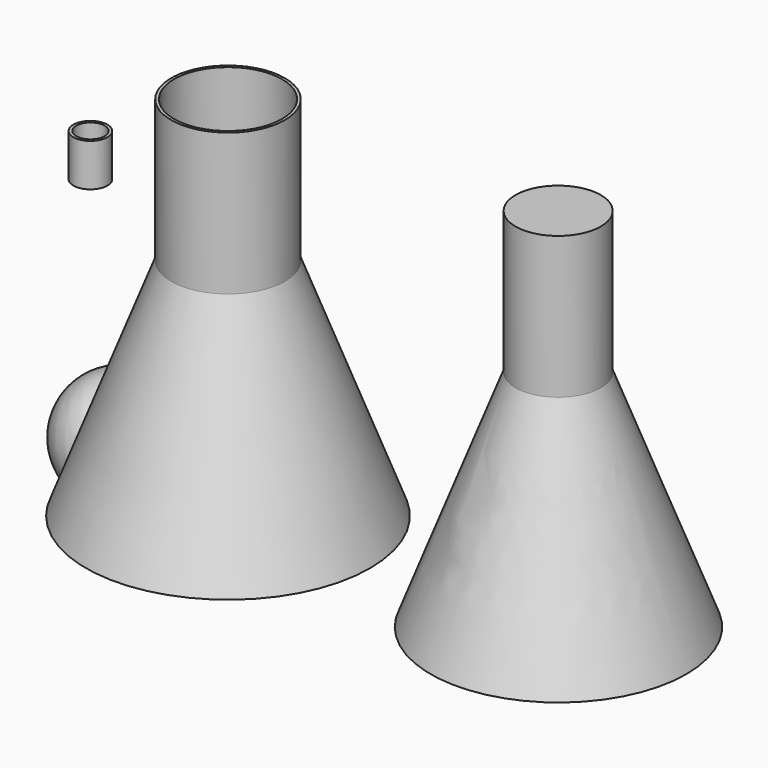
from build123d import *

# Parameters (mm, degrees)
F0_R      = 127
F2_R      = 50.8
F3_R      = 50.8
F3_R_2    = 19.1496706354
F5_DEPTH  = 127
F8_R      = 15.24
F9_DEPTH  = 38.1
F10_T     = -2.54
F11_T     = -2.54
F12_R     = 114.3
F13_R     = 38.1
F15_DEPTH = 127


with BuildPart() as f4:
    # F0 (on Top) → F4 section 0
    with BuildSketch(Plane.XY):
        Circle(F0_R)
    # F2 (on offset) → F4 section 1
    with BuildSketch(Plane.XY.offset(200.914)):
        Circle(F2_R)
    loft()

    # F3 (on face) + F2 (on offset) → F5 (join)
    with BuildSketch(Plane.XY.offset(200.914)):
        Circle(F3_R)
        Circle(F3_R_2, mode=Mode.SUBTRACT)
    with BuildSketch(Plane.XY.offset(200.914)):
        Circle(F2_R)
    extrude(amount=F5_DEPTH)

    # F10
    f10_openings = [f4.faces().sort_by_distance(p)[0] for p in [
        (0, 0, 327.914),
    ]]
    offset(amount=F10_T, openings=f10_openings, kind=Kind.INTERSECTION)


with BuildPart() as f7:
    # F6 (on Top) → F7 (revolve)
    with BuildSketch(Plane.XY):
        with BuildLine():
            Line((-175.8597775254, 18.4345462742), (-89.5629002197, 72.0558119199))
            ThreePointArc((-89.5629002197, 72.0558119199), (-159.6306215426, 88.5684764076), (-175.8597775254, 18.4345462742))
        make_face()
    revolve(axis=Axis((-132.7113388725, 45.2451790971, 0), (-0.84938566, -0.5277726788, 0)))


with BuildPart() as f9:
    # F8 (on offset) → F9 (new body)
    with BuildSketch(Plane.XY.offset(200.914)):
        with Locations((-151.6038477421, 35.7674062252)):
            Circle(F8_R)
    extrude(amount=F9_DEPTH)

    # F11
    f11_openings = [f9.faces().sort_by_distance(p)[0] for p in [
        (-151.603848, 35.767406, 239.014),
    ]]
    offset(amount=F11_T, openings=f11_openings)


with BuildPart() as f14:
    # F12 (on face) → F14 section 0
    with BuildSketch(Plane.XY):
        with Locations((285.1214110851, 12.838688679)):
            Circle(F12_R)
    # F13 (on offset) → F14 section 1
    with BuildSketch(Plane.XY.offset(200.914)):
        with Locations((285.4140996933, 12.1288876981)):
            Circle(F13_R)
    loft()

    # F15 (add): a face of the model
    f15_faces = [f14.faces().sort_by_distance(p)[0] for p in [
        (285.4140996933, 12.1288876981, 200.914),
    ]]
    extrude(f15_faces, amount=F15_DEPTH)


solid = Compound([f4.part, f7.part, f9.part, f14.part])
